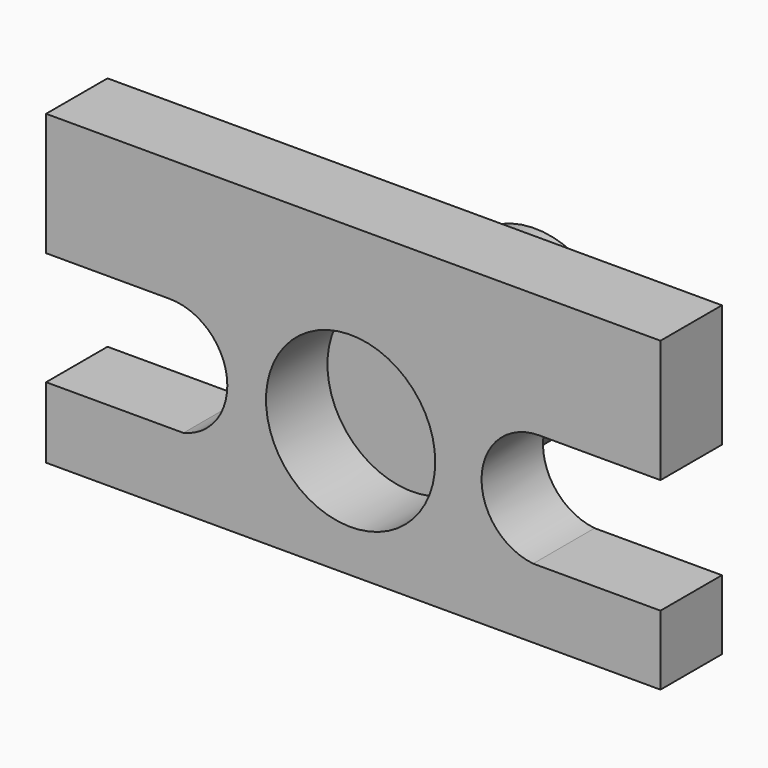
from build123d import *

# Parameters (mm, degrees)
F0_R     = 27.9852612084
F1_DEPTH = 25.4
F2_DEPTH = 25.4
F3_DEPTH = 25.4


with BuildPart() as f1:
    # F0 (on Front) → F1 (new body)
    with BuildSketch(Plane.XZ):
        with BuildLine():
            Line((65.836802125, 84.0739992619), (-137.363197875, 84.0739992619))
            Line((-137.363197875, 84.0739992619), (-137.363197875, 43.4789583087))
            Line((-137.363197875, 43.4789583087), (-96.4707667423, 43.4789583087))
            ThreePointArc((-96.4707667423, 43.4789583087), (-77.5575271333, 26.707525291), (-91.9463485479, 5.9240362607))
            Line((-91.9463485479, 5.9240362607), (-137.363197875, 5.9240362607))
            Line((-137.363197875, 5.9240362607), (-137.363197875, -17.5260007381))
            Line((-137.363197875, -17.5260007381), (65.836802125, -17.5260007381))
            Line((65.836802125, -17.5260007381), (65.836802125, 5.4826620035))
            Line((65.836802125, 5.4826620035), (23.7221289426, 5.4826620035))
            ThreePointArc((23.7221289426, 5.4826620035), (6.6831056088, 25.422828367), (25.7071620192, 43.4789583087))
            Line((25.7071620192, 43.4789583087), (65.836802125, 43.4789583087))
            Line((65.836802125, 43.4789583087), (65.836802125, 84.0739992619))
        make_face()
        with Locations((-36.6418771446, 24.4909115136)):
            Circle(F0_R, mode=Mode.SUBTRACT)
    extrude(amount=F1_DEPTH)

    # F0 (on Front) → F2 (join)
    with BuildSketch(Plane.XZ):
        with Locations((-36.6418771446, 24.4909115136)):
            Circle(F0_R)
    extrude(amount=-F2_DEPTH)

    # F3 (add): a face of the model
    f3_faces = [f1.faces().sort_by_distance(p)[0] for p in [
        (-36.6418771446, 25.4, 24.4909115136),
    ]]
    extrude(f3_faces, amount=F3_DEPTH)


solid = f1.part
